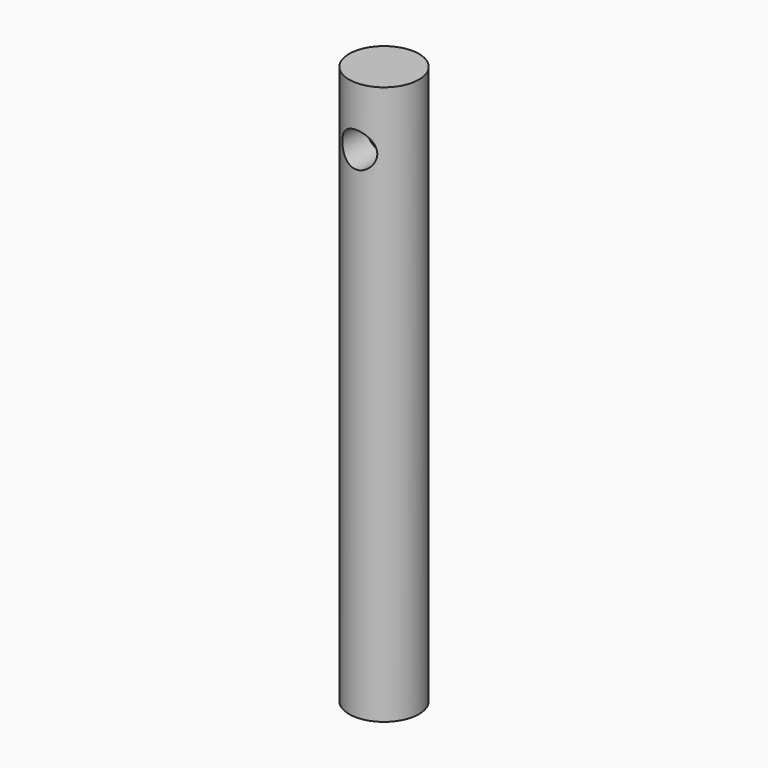
from build123d import *

# Parameters (mm, degrees)
F0_R     = 10
F1_DEPTH = 160
F3_R     = 5
F4_DEPTH = 15


with BuildPart() as f1:
    # F0 (on Top) → F1 (new body)
    with BuildSketch(Plane.XY):
        Circle(F0_R)
    extrude(amount=-F1_DEPTH)

    # F3 (on offset) → F4 (cut)
    with BuildSketch(Plane.XZ.offset(15)):
        with Locations((0, -16.85053)):
            Circle(F3_R)
    extrude(amount=-F4_DEPTH, mode=Mode.SUBTRACT)


solid = f1.part
